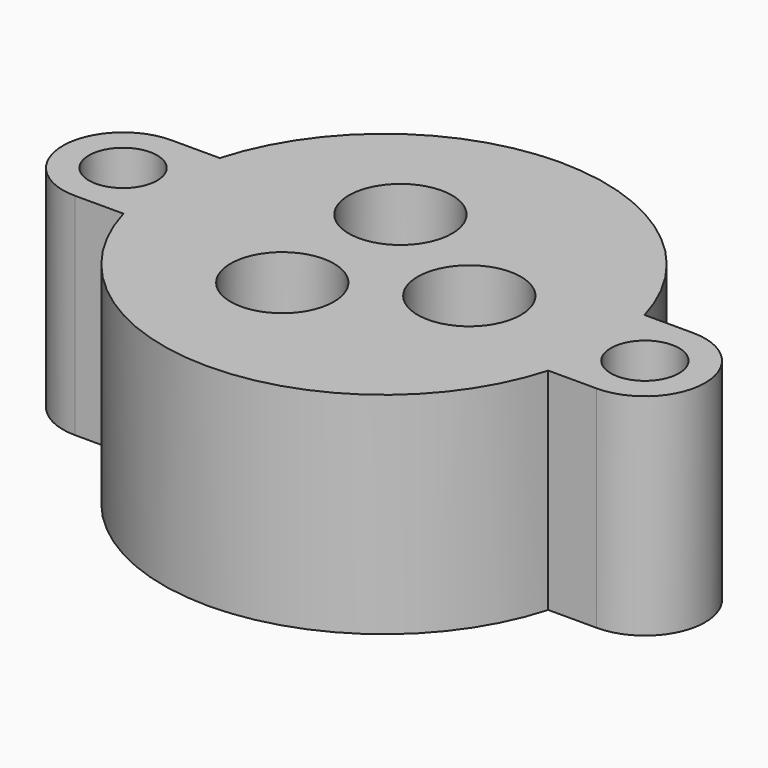
from build123d import *

# Parameters (mm, degrees)
CYLINDER183_R     = 1.7
CYLINDER183_DEPTH = 11
CYLINDER180_R     = 7.14375
CYLINDER180_DEPTH = 2.38125
CYLINDER188_R     = 9.525
CYLINDER188_DEPTH = 2.38125
CYLINDER189_R     = 2.2
CYLINDER189_DEPTH = 9
CYLINDER186_R     = 0.8
CYLINDER186_DEPTH = 5
CYLINDER187_R     = 2.575
CYLINDER187_DEPTH = 6
ARRAY003_COUNT    = 3
CYLINDER182_R     = 1.7
CYLINDER182_DEPTH = 11
BOX007_W          = 3
BOX007_H          = 6
BOX007_DEPTH      = 10.5
BOX006_W          = 3
BOX006_H          = 6
BOX006_DEPTH      = 10.5
CYLINDER181_R     = 3
CYLINDER181_DEPTH = 10.5
CYLINDER184_R     = 11
CYLINDER184_DEPTH = 10.5
CYLINDER185_R     = 3
CYLINDER185_DEPTH = 10.5


with BuildPart() as obj1:
    # Cylinder183 → Cylinder183 (new body)
    with BuildSketch(Plane(origin=(-13, 0, 0), x_dir=(1, 0, 0), z_dir=(0, 0, 1))):
        Circle(CYLINDER183_R)
    extrude(amount=CYLINDER183_DEPTH)


with BuildPart() as cylinder014:
    # Cylinder180 → Cylinder180 (new body)
    with BuildSketch(Plane.XY):
        Circle(CYLINDER180_R)
    extrude(amount=CYLINDER180_DEPTH)


with BuildPart() as oring003:
    # Cylinder188 → Cylinder188 (new body)
    with BuildSketch(Plane.XY):
        Circle(CYLINDER188_R)
    extrude(amount=CYLINDER188_DEPTH)

    # Cut025: cut Cylinder014
    add(cylinder014.part, mode=Mode.SUBTRACT)


with BuildPart() as oring003_1:
    # Cut025 placement: moved
    add(oring003.part.moved(Location((0, 0, -0.75))))


with BuildPart() as sealsubtraction003:
    # Cylinder189 → Cylinder189 (new body)
    with BuildSketch(Plane.XY.offset(1.3)):
        Circle(CYLINDER189_R)
    extrude(amount=CYLINDER189_DEPTH)


with BuildPart() as bottomwireoutlet003:
    # Cylinder186 → Cylinder186 (new body)
    with BuildSketch(Plane.XY.offset(-2)):
        Circle(CYLINDER186_R)
    extrude(amount=CYLINDER186_DEPTH)


with BuildPart() as sealarray003:
    # Cylinder187 → Cylinder187 (new body)
    with BuildSketch(Plane.XY.offset(4.5)):
        Circle(CYLINDER187_R)
    extrude(amount=CYLINDER187_DEPTH)

    # Fusion009: union SealSubtraction003, BottomWireOutlet003
    add(sealsubtraction003.part)
    add(bottomwireoutlet003.part)


with BuildPart() as sealarray003_1:
    # Fusion009 placement: moved
    add(sealarray003.part.moved(Location((4.25, 0, 0))))

    # Array003: SealArray003 ×3 about axis
    array003_axis = Axis((0, 0, 0), (0, 0, 1))


with BuildPart() as sealarray003_2:
    add(sealarray003_1.part)
    for i in range(1, ARRAY003_COUNT):
        add(sealarray003_1.part.rotate(array003_axis, i * 360 / ARRAY003_COUNT))


with BuildPart() as fusion010:
    # Cylinder182 → Cylinder182 (new body)
    with BuildSketch(Plane(origin=(13, 0, 0), x_dir=(1, 0, 0), z_dir=(0, 0, 1))):
        Circle(CYLINDER182_R)
    extrude(amount=CYLINDER182_DEPTH)

    # Fusion010: union obj1, Oring003, SealArray003
    add(obj1.part)
    add(oring003_1.part)
    add(sealarray003_2.part)


with BuildPart() as mountcube008:
    # Box007 → Box007 (new body)
    with BuildSketch(Plane(origin=(10, -3, 0), x_dir=(1, 0, 0), z_dir=(0, 0, 1))):
        with Locations((1.5, 3)):
            Rectangle(BOX007_W, BOX007_H)
    extrude(amount=BOX007_DEPTH)


with BuildPart() as mountcube007:
    # Box006 → Box006 (new body)
    with BuildSketch(Plane(origin=(-13, -3, 0), x_dir=(1, 0, 0), z_dir=(0, 0, 1))):
        with Locations((1.5, 3)):
            Rectangle(BOX006_W, BOX006_H)
    extrude(amount=BOX006_DEPTH)


with BuildPart() as mountflange007:
    # Cylinder181 → Cylinder181 (new body)
    with BuildSketch(Plane(origin=(-13, 0, 0), x_dir=(1, 0, 0), z_dir=(0, 0, 1))):
        Circle(CYLINDER181_R)
    extrude(amount=CYLINDER181_DEPTH)


with BuildPart() as body003:
    # Cylinder184 → Cylinder184 (new body)
    with BuildSketch(Plane.XY):
        Circle(CYLINDER184_R)
    extrude(amount=CYLINDER184_DEPTH)


with BuildPart() as cut026:
    # Cylinder185 → Cylinder185 (new body)
    with BuildSketch(Plane(origin=(13, 0, 0), x_dir=(1, 0, 0), z_dir=(0, 0, 1))):
        Circle(CYLINDER185_R)
    extrude(amount=CYLINDER185_DEPTH)

    # Fusion011: union MountCube008, MountCube007, MountFlange007, Body003
    add(mountcube008.part)
    add(mountcube007.part)
    add(mountflange007.part)
    add(body003.part)

    # Cut026: cut Fusion010
    add(fusion010.part, mode=Mode.SUBTRACT)


with BuildPart() as cut026_1:
    # Cut026 placement: moved
    add(cut026.part.moved(Location((0, 0, -10.5))))


solid = cut026_1.part
